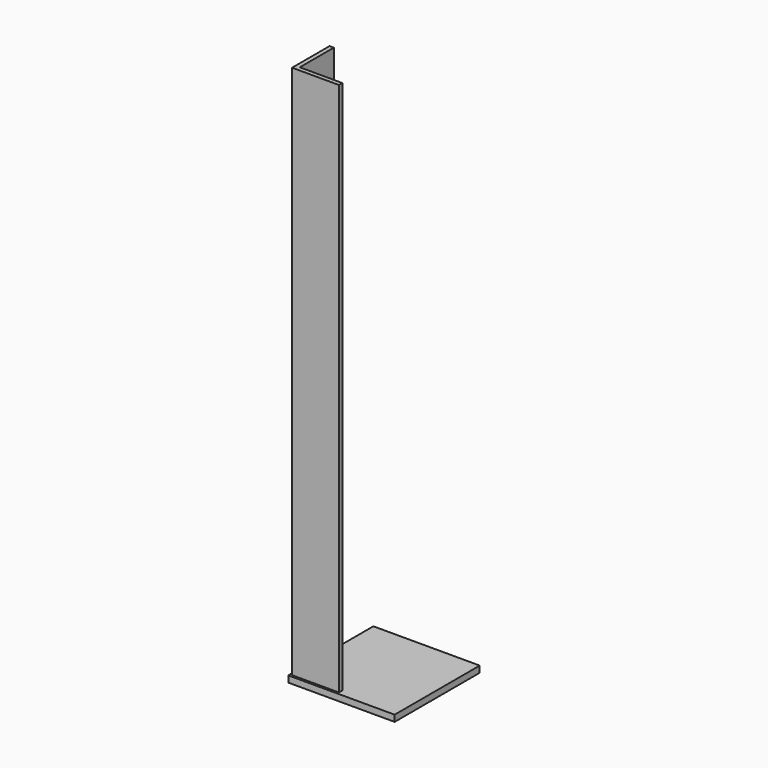
from build123d import *

# Parameters (mm, degrees)
F0_W     = 250
F0_H     = 250
F1_DEPTH = 15
F3_DEPTH = 1257


with BuildPart() as f1:
    # F0 (on Top) → F1 (new body)
    with BuildSketch(Plane.XY):
        Rectangle(F0_W, F0_H)
    extrude(amount=F1_DEPTH)

    # F2 (on face) → F3 (join)
    with BuildSketch(Plane.XY.offset(15)):
        Polygon((-110, -10), (-120, -10), (-120, -110), (-120, -120), (-110, -120), (-10, -120), (-10, -110), (-110, -110), align=None)
    extrude(amount=F3_DEPTH)


solid = f1.part
